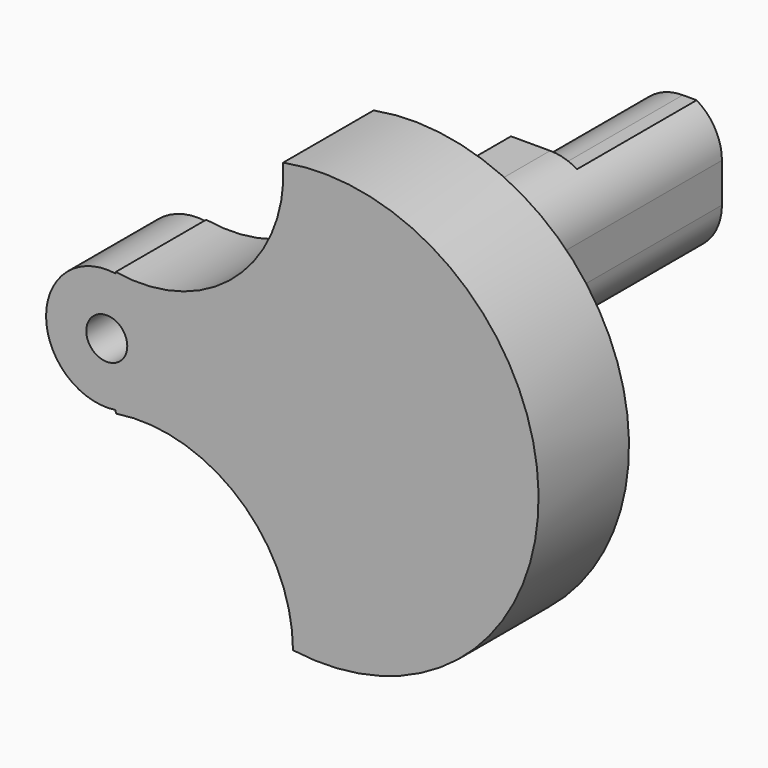
from build123d import *

# Parameters (mm, degrees)
F0_R     = 1.9939
F1_DEPTH = 10.9982
F2_W     = 14.542134
F2_H     = 12.6746
F3_DEPTH = 8.89
F4_R     = 5.08


with BuildPart() as f1:
    # F0 (on Front) → F1 (new body)
    with BuildSketch(Plane.XZ):
        with BuildLine():
            ThreePointArc((-20.13472, 5.986373), (-20.155318, 5.916654), (-20.175674, 5.846864))
            ThreePointArc((-20.175674, 5.846864), (-26.9113, 0), (-20.175674, -5.846864))
            ThreePointArc((-20.175674, -5.846864), (-20.133047, -5.992), (-20.089376, -6.136825))
            ThreePointArc((-20.089376, -6.136825), (-8.126305, -9.529423), (-2.886791, -20.806491))
            ThreePointArc((-2.886791, -20.806491), (21.000248, 0.482945), (-3.840213, 20.651789))
            ThreePointArc((-3.840213, 20.651789), (-8.446323, 9.384574), (-20.13472, 5.986373))
        make_face()
        with Locations((-21.0058, 0)):
            Circle(F0_R, mode=Mode.SUBTRACT)
    extrude(amount=F1_DEPTH)

    # F2 (on Right) → F3 (join)
    with BuildSketch(Plane.YZ):
        Polygon((0, 7.435056), (0, -6.560344), (23.0124, -6.560344), (23.0124, -5.96783), (23.0124, 6.70677), (23.0124, 7.435056), align=None)
        with Locations((30.283467, 0.36947)):
            Rectangle(F2_W, F2_H)
    extrude(amount=-F3_DEPTH)

    # F4
    f4_edges = [f1.edges().sort_by_distance(p)[0] for p in [
        (0, 11.5062, 7.435056),
        (0, 11.5062, -6.560344),
        (-8.89, 30.283467, 6.70677),
        (-8.89, 30.283467, -5.96783),
    ]]
    fillet(f4_edges, radius=F4_R)


solid = f1.part
